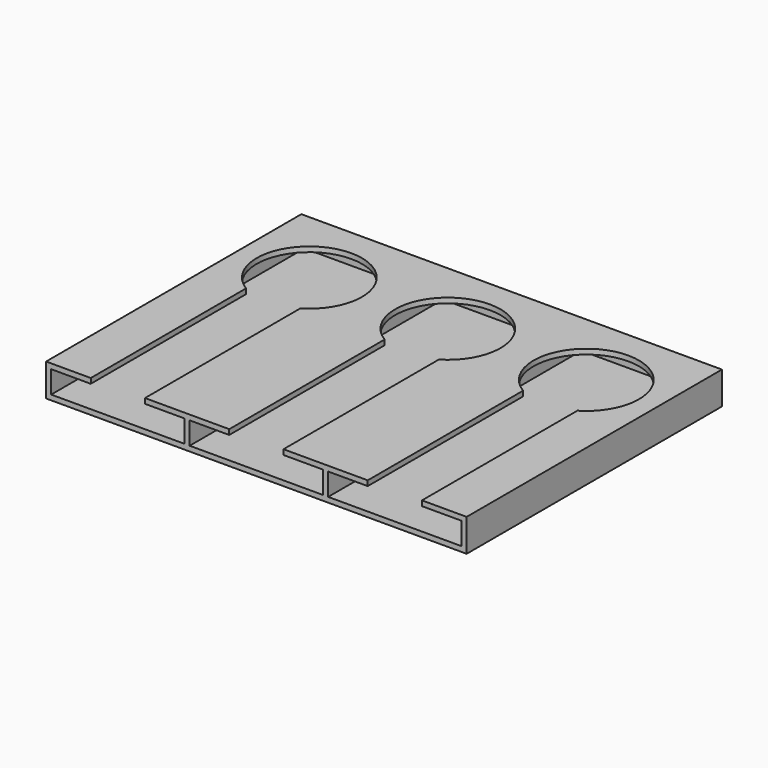
from build123d import *

# Parameters (mm, degrees)
F0_W      = 45
F0_H      = 100
F1_DEPTH  = 10.2
F2_W      = 17
F2_H      = 70
F3_DEPTH  = 8.6
F4_W      = 41.8
F4_H      = 100
F5_DEPTH  = 7
F8_R      = 16.5
F9_DEPTH  = 10
F14_W     = 131.8
F14_H     = 10.2
F15_DEPTH = 0.8


with BuildPart() as f1:
    # F0 (on Top) → F1 (new body)
    with BuildSketch(Plane.XY):
        with Locations((-33.8353561237, -14.8088461805)):
            Rectangle(F0_W, F0_H)
    extrude(amount=F1_DEPTH)

    # F2 (on face) → F3 (cut)
    with BuildSketch(Plane.XY.offset(10.2)):
        with Locations((-33.8353561237, -29.8088461805)):
            Rectangle(F2_W, F2_H)
    extrude(amount=-F3_DEPTH, mode=Mode.SUBTRACT)


with BuildPart() as f5:
    # F4 (on Top) → F5 (new body)
    with BuildSketch(Plane.XY):
        with Locations((-35.4353561237, -14.8088461805)):
            Rectangle(F4_W, F4_H)
    extrude(amount=F5_DEPTH)


with BuildPart() as f5_1:
    # F6: moved
    add(f5.part.moved(Location((1.6, 0, 1.6))))


with BuildPart() as f1_1:
    add(f1.part)

    # F7: cut F5
    add(f5_1.part, mode=Mode.SUBTRACT)


with BuildPart() as f9:
    # F8 (on Top) → F9 (new body)
    with BuildSketch(Plane.XY):
        with Locations((-33.8353561237, -64.8088461805)):
            Circle(F8_R)
    extrude(amount=F9_DEPTH)


with BuildPart() as f9_1:
    # F10: moved
    add(f9.part.moved(Location((0, 75, 4))))


with BuildPart() as f1_2:
    add(f1_1.part)

    # F11: cut F9
    add(f9_1.part, mode=Mode.SUBTRACT)


with BuildPart() as f12_1:
    # F12: copy of F1
    add(f1_2.part.moved(Location((43.4, 0, 0))))


with BuildPart() as f13_1:
    # F13: copy of F12_1
    add(f12_1.part.moved(Location((43.4, 0, 0))))


with BuildPart() as f1_3:
    add(f1_2.part)

    add(f12_1.part)  # F15 merges F12_1

    add(f13_1.part)  # F15 merges F13_1
    # F14 (on face) → F15 (join)
    with BuildSketch(Plane(origin=(0, 35.1911538195, 0), x_dir=(-1, 0, 0), z_dir=(0, 1, 0))):
        with Locations((-9.5646438763, 5.1)):
            Rectangle(F14_W, F14_H)
    extrude(amount=-F15_DEPTH)


solid = f1_3.part
